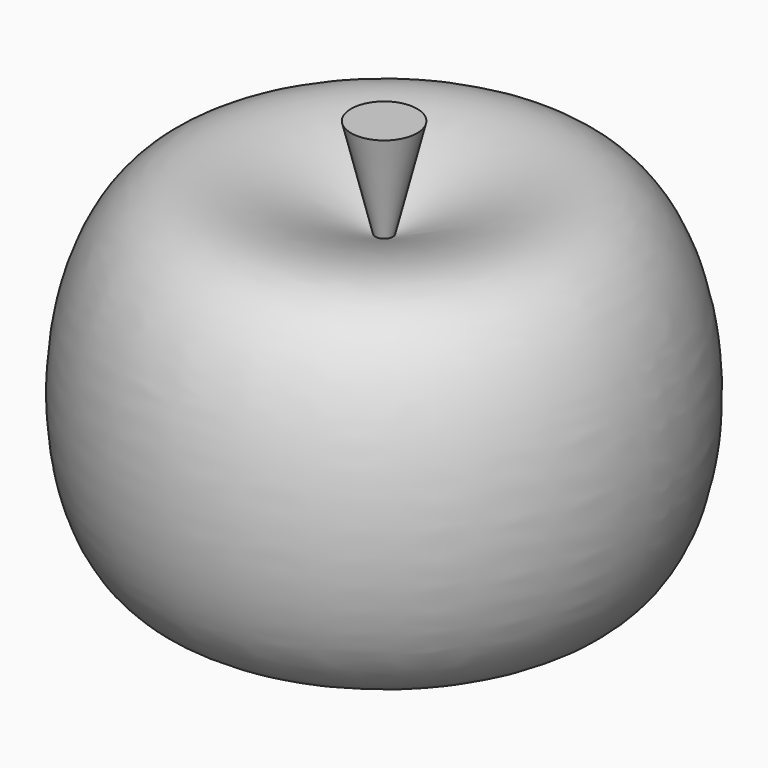
from build123d import *


with BuildPart() as f1:
    # F0 (on Front) → F1 (revolve)
    with BuildSketch(Plane.XZ):
        with BuildLine():
            Line((8.1236204132, 30.8084487915), (0, 30.8084487915))
            Line((0, 30.8084487915), (0, -63.3029341698))
            add(Edge.make_bspline(
                [(2.1458617412, 6.4375866205), (17.9258765066, 13.5917889171), (49.0178752045, 27.6880018674), (70.4614156898, -19.3657477115), (57.4790340895, -81.1314632036), (6.8406048183, -62.4428340342), (1.4953969359, -63.1149111599), (0, -63.3029341698)],
                knots=[0, 0, 0, 0, 0.2280140419, 0.449265251, 0.6920063189, 0.9138344444, 1, 1, 1, 1], degree=3))
            Line((2.1458617412, 6.4375866205), (8.1236204132, 30.8084487915))
        make_face()
    revolve(axis=Axis((0, 0, -16.2472426891), (0, 0, -1)))


solid = f1.part
